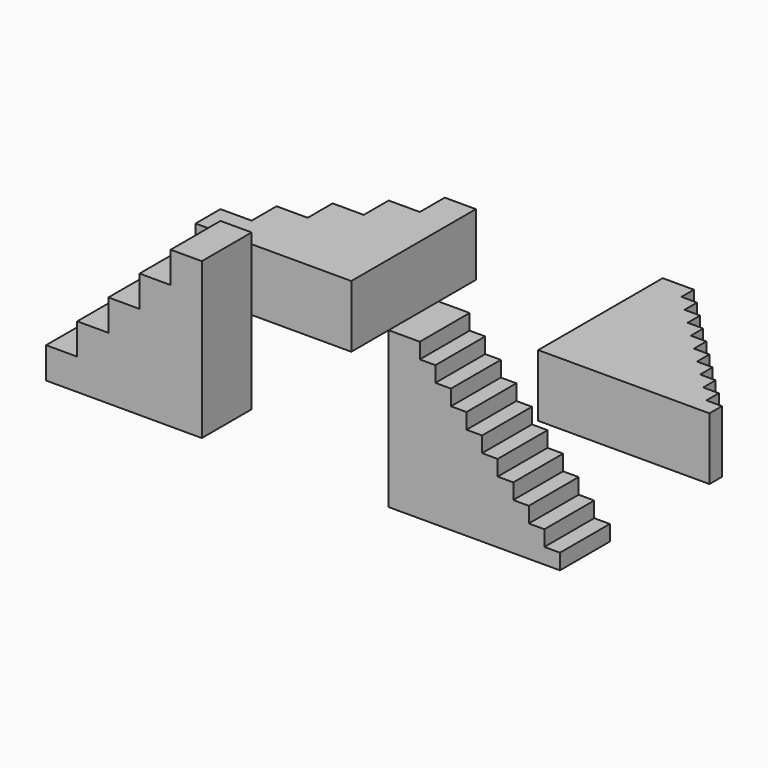
from build123d import *

# Parameters (mm, degrees)
F1_DEPTH = 20
F0_W     = 5
F0_H     = 5
F2_ANGLE = 90


with BuildPart() as f1:
    # F0 (on Front) → F1 (new body)
    with BuildSketch(Plane.XZ):
        Polygon((38.7844033539, 10), (28.7844033539, 10), (28.7844033539, 0), (78.7844033539, 0), (78.7844033539, 50), (68.7844033539, 50), (68.7844033539, 40), (58.7844033539, 40), (58.7844033539, 30), (48.7844033539, 30), (48.7844033539, 20), (38.7844033539, 20), align=None)
    extrude(amount=-F1_DEPTH)


with BuildPart() as f1b:
    # F0 (on Front) → F1, piece 2 (new body)
    with BuildSketch(Plane.XZ):
        Polygon((148.7844033539, 50), (138.7844033539, 50), (138.7844033539, 0), (188.7844033539, 0), (188.7844033539, 5), (188.7844033539, 10), (183.7844033539, 10), (178.7844033539, 10), (178.7844033539, 15), (178.7844033539, 20), (173.7844033539, 20), (173.7844033539, 25), (168.7844033539, 25), (168.7844033539, 30), (163.7844033539, 30), (158.7844033539, 30), (158.7844033539, 35), (158.7844033539, 40), (153.7844033539, 40), (148.7844033539, 40), (148.7844033539, 45), align=None)
        with Locations((151.2844033539, 42.5)):
            Rectangle(F0_W, F0_H)
        with Locations((161.2844033539, 32.5)):
            Rectangle(F0_W, F0_H)
        with Locations((181.2844033539, 12.5)):
            Rectangle(F0_W, F0_H)
        with Locations((191.2844033539, 2.5)):
            Rectangle(F0_W, F0_H)
    extrude(amount=-F1_DEPTH)


with BuildPart() as f2_1:
    # F2: copy of F1
    add(f1.part.rotate(Axis((53.7844033539, 20, 0), (-1, 0, 0)), F2_ANGLE))


with BuildPart() as f2_2:
    # F2: copy of F1b
    add(f1b.part.rotate(Axis((53.7844033539, 20, 0), (-1, 0, 0)), F2_ANGLE))


with BuildPart() as f2_1_1:
    # F3: moved
    add(f2_1.part.moved(Location((0, 40, 0))))


with BuildPart() as f2_2_1:
    # F3: moved
    add(f2_2.part.moved(Location((0, 40, 0))))


solid = Compound([f1.part, f1b.part, f2_1_1.part, f2_2_1.part])
